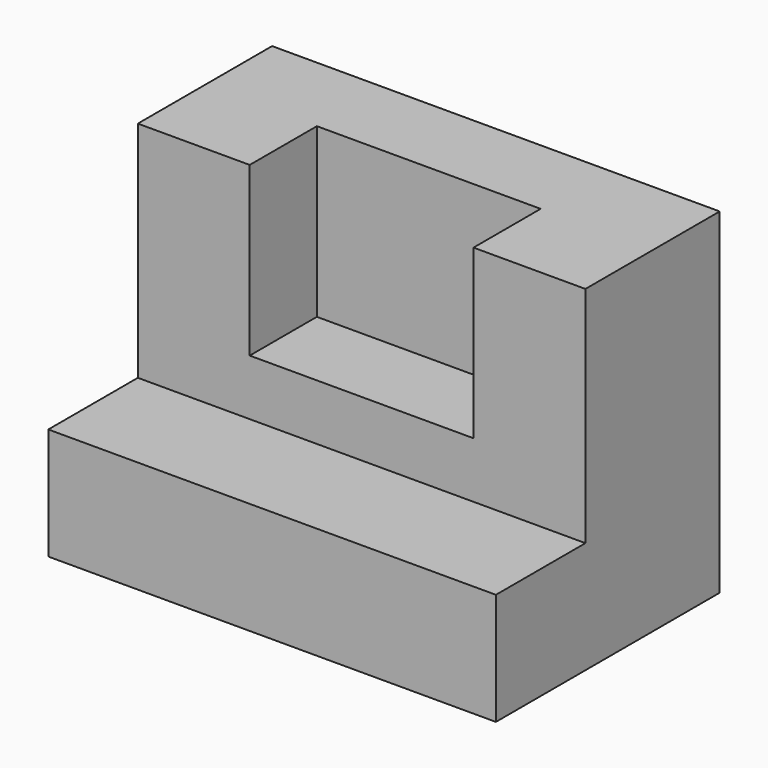
from build123d import *

# Parameters (mm, degrees)
F1_DEPTH = 101.6
F2_W     = 50.8
F2_H     = 38.1
F3_DEPTH = 19.05


with BuildPart() as f1:
    # F0 (on Right) → F1 (new body)
    with BuildSketch(Plane.YZ):
        Polygon((-35.012818, -2.121171), (-35.012818, -27.521171), (28.487182, -27.521171), (28.487182, 48.678829), (-9.612818, 48.678829), (-9.612818, -2.121171), align=None)
    extrude(amount=-F1_DEPTH)

    # F2 (on face) → F3 (cut)
    with BuildSketch(Plane.XZ.offset(9.612818)):
        with Locations((-50.8, 29.628829)):
            Rectangle(F2_W, F2_H)
    extrude(amount=-F3_DEPTH, mode=Mode.SUBTRACT)


solid = f1.part
